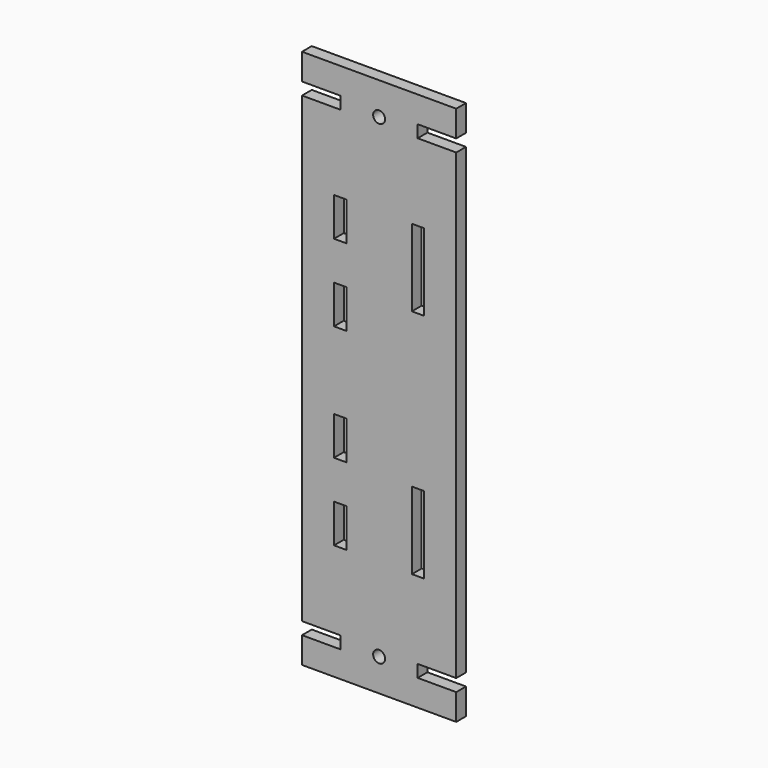
from build123d import *

# Parameters (mm, degrees)
F0_W     = 3.2
F0_H     = 20
F0_R     = 1.55
F0_H_2   = 10
F1_DEPTH = 1.585
F3_ANGLE = 180


with BuildPart() as f1:
    # F0 (on Front) → F1 (new body, symmetric)
    with BuildSketch(Plane.XZ):
        Polygon((20, -60), (20, 0), (20, 60), (10, 60), (10, 63.2), (20, 63.2), (20, 70), (0, 70), (-20, 70), (-20, 63.2), (-10, 63.2), (-10, 60), (-20, 60), (-20, 0), (-20, -60), (-10, -60), (-10, -63.2), (-20, -63.2), (-20, -70), (0, -70), (20, -70), (20, -63.2), (10, -63.2), (10, -60), align=None)
        with Locations((-10.1, -30)):
            Rectangle(F0_W, F0_H, mode=Mode.SUBTRACT)
        with Locations((0, -61.6)):
            Circle(F0_R, mode=Mode.SUBTRACT)
        with Locations((10.1, -35)):
            Rectangle(F0_W, F0_H_2, mode=Mode.SUBTRACT)
        with Locations((10.1, -15)):
            Rectangle(F0_W, F0_H_2, mode=Mode.SUBTRACT)
        with Locations((-10.1, 30)):
            Rectangle(F0_W, F0_H, mode=Mode.SUBTRACT)
        with Locations((10.1, 15)):
            Rectangle(F0_W, F0_H_2, mode=Mode.SUBTRACT)
        with Locations((0, 61.6)):
            Circle(F0_R, mode=Mode.SUBTRACT)
        with Locations((10.1, 35)):
            Rectangle(F0_W, F0_H_2, mode=Mode.SUBTRACT)
    extrude(amount=F1_DEPTH, both=True)


with BuildPart() as f1_1:
    # F3: moved
    add(f1.part.rotate(Axis((0, 0, -6.9773904979), (0, 0, -1)), F3_ANGLE))


solid = f1_1.part
